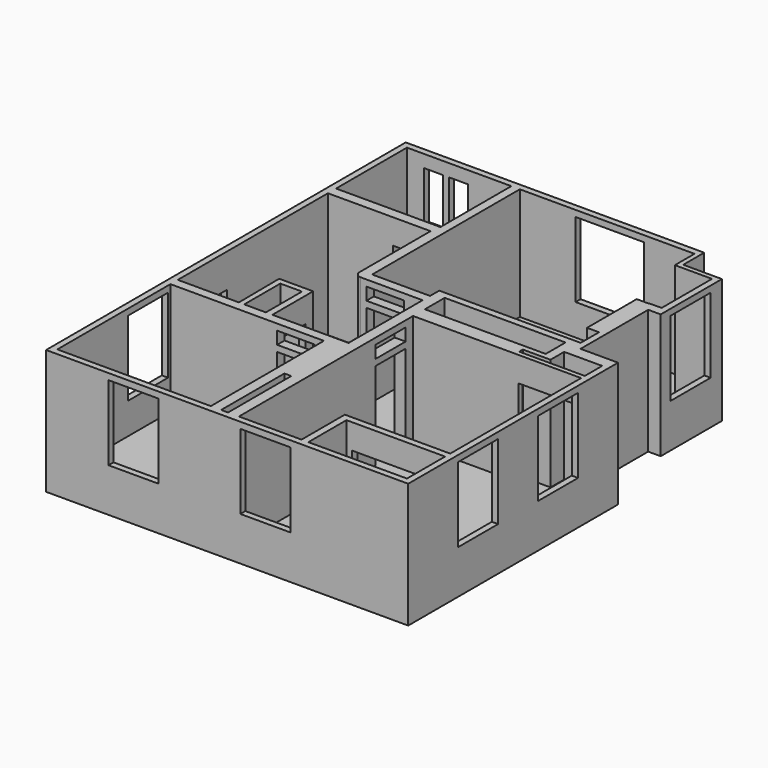
from build123d import *

# Parameters (mm, degrees)
F3_DEPTH  = 10
F4_DEPTH  = 100
F1_W      = 17.366
F1_H      = 36.154188
F5_DEPTH  = 100
F6_W      = 40
F6_H      = 60
F7_DEPTH  = 10
F8_W      = 40
F8_H      = 60
F9_DEPTH  = 10
F10_W     = 40
F10_H     = 60
F11_DEPTH = 10
F12_W     = 40
F12_H     = 60
F12_W_2   = 30
F12_H_2   = 50
F13_DEPTH = 10
F14_W     = 15
F14_H     = 40
F14_W_2   = 55
F14_H_2   = 60
F15_DEPTH = 10
F16_W     = 80
F16_H     = 70
F17_DEPTH = 10
F18_W     = 30
F18_H     = 70
F18_H_2   = 10
F19_DEPTH = 10
F20_W     = 30
F20_H     = 70
F20_H_2   = 10
F21_DEPTH = 10
F22_W     = 30
F22_H     = 70
F22_H_2   = 10
F23_DEPTH = 10
F24_W     = 30
F24_H     = 70
F25_DEPTH = 10
F26_R     = 5
F27_W     = 45
F27_H     = 70
F28_DEPTH = 5.6
F29_W     = 55
F29_H     = 70
F30_DEPTH = 8
F31_W     = 64.428788
F31_H     = 70
F32_DEPTH = 10
F33_W     = 30
F33_H     = 70
F34_DEPTH = 10


with BuildPart() as f3:
    # F2 (on Top) → F3 (new body)
    with BuildSketch(Plane.XY):
        Polygon((95.242359, 211.719842), (-138.729709, 211.719842), (-138.342458, 131.481439), (-108.129827, 131.481439), (-108.046199, 94.60168), (-87.173399, 94.649011), (-86.914142, -19.682718), (-137.61172, -19.927398), (-137.295023, -85.54685), (-137.905847, -85.549798), (-137.633327, -142.015695), (144.48047, -142.015695), (144.48047, 61.8671), (113.558467, 61.8671), (113.558467, 138.765142), (124.934341, 138.765142), (124.934341, 192.200884), (95.242359, 192.200884), align=None)
    extrude(amount=F3_DEPTH)

    # F0 (on Top) → F4 (join)
    with BuildSketch(Plane.XY):
        Polygon((97.288959, 214.708266), (-141.752276, 214.708266), (-141.752276, -145.291734), (148.247724, -145.291734), (148.247724, 64.708266), (118.247724, 64.708266), (118.247724, 132.413622), (128.247724, 132.413622), (128.247724, 190.051958), (128.247724, 193.735838), (97.288959, 193.735838), align=None)
        Polygon((0, -140.291734), (-136.752276, -140.291734), (-136.752276, -24.433134), (0, -24.433134), (0, -134.701237), align=None, mode=Mode.SUBTRACT)
        Polygon((-136.752276, 135.399103), (-136.752276, 209.708266), (-52.510735, 209.708266), (-46.752276, 209.708266), (93.502745, 209.708266), (93.502745, 190.051958), (123.247724, 190.051958), (123.247724, 139.708266), (113.247724, 139.541012), (113.247724, 89.373782), (113.247724, 69.708266), (113.247724, 59.708266), (143.247724, 59.708266), (143.247724, 39.708266), (143.247724, -140.291734), (3.247724, -140.291734), (3.247724, -20.291734), (-80.555938, -20.291734), (-86.73545, -20.291734), (-136.752276, -20.291734), (-136.752276, 94.766736), (-136.752276, 99.708266), (-136.752276, 129.708266), align=None, mode=Mode.SUBTRACT)
    extrude(amount=F4_DEPTH)

    # F1 (on Top) → F5 (join)
    with BuildSketch(Plane.XY):
        Polygon((-46.381772, 210.111141), (-53.180333, 210.111141), (-53.180333, 138.726264), (-138.247326, 138.726264), (-138.247326, 130.567983), (-54.540046, 130.567983), (-54.540046, 54.424096), (0, 54.424096), (0, -19.680222), (-61.00649, -19.680222), (-61.00649, 21.1049), (-88.213228, 21.1049), (-87.853, -19.680222), (-137.235827, -19.680222), (-137.206597, -27.083231), (-13.823553, -27.083231), (-13.823553, -77.065498), (-13.823553, -142.692134), (-5.52455, -142.692134), (-5.52455, -77.065498), (0, -77.065498), (0, -143.060565), (8.686575, -143.060565), (8.686575, 34.028415), (90.665676, 34.028415), (145.648941, 34.028415), (145.648941, 37.734261), (90.665676, 37.734261), (90.665676, 41.440107), (112.807184, 41.440107), (112.807184, 55.10395), (137.995422, 55.10395), (143.29809, 55.10395), (144.269308, 61.888803), (114.873245, 61.888803), (114.873245, 71.072504), (0, 71.072504), (0, 61.888803), (-46.381772, 61.888803), align=None)
        with Locations((-74.89929, -1.603128)):
            Rectangle(F1_W, F1_H, mode=Mode.SUBTRACT)
        Polygon((105.549461, 45.731954), (8.765615, 45.731954), (8.765615, 65.555473), (90.949163, 65.555473), (96.314847, 65.555473), (105.549461, 65.555473), (105.549461, 55.10395), align=None, mode=Mode.SUBTRACT)
        Polygon((103.623547, 89.477897), (113.413647, 89.477897), (113.805249, 139.211625), (103.623547, 139.211625), align=None)
        Polygon((58.818936, -96.983925), (58.818936, -141.743556), (64.279255, -141.743556), (64.279255, -102.133363), (144.678116, -102.133363), (144.678116, -96.983925), align=None)
        Polygon((97.186632, 212.130934), (93.550943, 212.130934), (93.550943, 190.134004), (124.809749, 190.134004), (124.809749, 193.531185), (97.186632, 193.531185), align=None)
    extrude(amount=F5_DEPTH)

    # F6 (on face) → F7 (cut)
    with BuildSketch(Plane.YZ.offset(148.247724)):
        with Locations((-75.291734, 65)):
            Rectangle(F6_W, F6_H)
        with Locations((4.708266, 65)):
            Rectangle(F6_W, F6_H)
    extrude(amount=-F7_DEPTH, mode=Mode.SUBTRACT)

    # F8 (on face) → F9 (cut)
    with BuildSketch(Plane.YZ.offset(128.247724)):
        with Locations((162.413622, 65)):
            Rectangle(F8_W, F8_H)
    extrude(amount=-F9_DEPTH, mode=Mode.SUBTRACT)

    # F10 (on face) → F11 (cut)
    with BuildSketch(Plane.XZ.offset(145.291734)):
        with Locations((33.812322, 65)):
            Rectangle(F10_W, F10_H)
        with Locations((-71.752276, 65)):
            Rectangle(F10_W, F10_H)
    extrude(amount=-F11_DEPTH, mode=Mode.SUBTRACT)

    # F12 (on face) → F13 (cut)
    with BuildSketch(Plane(origin=(-141.752276, 0, 0), x_dir=(0, -1, 0), z_dir=(-1, 0, 0))):
        with Locations((49.433134, 65)):
            Rectangle(F12_W, F12_H)
        with Locations((-14.708266, 48)):
            Rectangle(F12_W_2, F12_H_2)
    extrude(amount=-F13_DEPTH, mode=Mode.SUBTRACT)

    # F14 (on face) → F15 (cut)
    with BuildSketch(Plane(origin=(0, 214.708266, 0), x_dir=(-1, 0, 0), z_dir=(0, 1, 0))):
        with Locations((95.571365, 70)):
            Rectangle(F14_W, F14_H)
        with Locations((115.571365, 70)):
            Rectangle(F14_W, F14_H)
        with Locations((-25.747724, 65)):
            Rectangle(F14_W_2, F14_H_2)
    extrude(amount=-F15_DEPTH, mode=Mode.SUBTRACT)

    # F16 (on face) → F17 (cut)
    with BuildSketch(Plane(origin=(0, 71.072504, 0), x_dir=(-1, 0, 0), z_dir=(0, 1, 0))):
        with Locations((-60, 45)):
            Rectangle(F16_W, F16_H)
    extrude(amount=-F17_DEPTH, mode=Mode.SUBTRACT)

    # F18 (on face) → F19 (cut)
    with BuildSketch(Plane(origin=(0, 61.888803, 0), x_dir=(-1, 0, 0), z_dir=(0, 1, 0))):
        with Locations((30, 45)):
            Rectangle(F18_W, F18_H)
        with Locations((30, 90)):
            Rectangle(F18_W, F18_H_2)
    extrude(amount=-F19_DEPTH, mode=Mode.SUBTRACT)

    # F20 (on face) → F21 (cut)
    with BuildSketch(Plane.XZ.offset(27.083231)):
        with Locations((-36.323553, 45)):
            Rectangle(F20_W, F20_H)
        with Locations((-36.323553, 90)):
            Rectangle(F20_W, F20_H_2)
    extrude(amount=-F21_DEPTH, mode=Mode.SUBTRACT)

    # F22 (on face) → F23 (cut)
    with BuildSketch(Plane.YZ.offset(8.686575)):
        with Locations((11.528415, 45)):
            Rectangle(F22_W, F22_H)
        with Locations((11.528415, 90)):
            Rectangle(F22_W, F22_H_2)
    extrude(amount=-F23_DEPTH, mode=Mode.SUBTRACT)

    # F24 (on face) → F25 (cut)
    with BuildSketch(Plane.XZ.offset(-130.567983)):
        with Locations((-69.528099, 45)):
            Rectangle(F24_W, F24_H)
    extrude(amount=-F25_DEPTH, mode=Mode.SUBTRACT)

    # F26
    f26_edges = [f3.edges().sort_by_distance(p)[0] for p in [
        (-54.540046, 54.424096, 55),
    ]]
    fillet(f26_edges, radius=F26_R)

    # F27 (on face) → F28 (cut)
    with BuildSketch(Plane.XZ.offset(-34.028415)):
        with Locations((115.747724, 45)):
            Rectangle(F27_W, F27_H)
    extrude(amount=-F28_DEPTH, mode=Mode.SUBTRACT)

    # F29 (on face) → F30 (cut)
    with BuildSketch(Plane(origin=(-13.823553, 0, 0), x_dir=(0, -1, 0), z_dir=(-1, 0, 0))):
        with Locations((107.791734, 45)):
            Rectangle(F29_W, F29_H)
    extrude(amount=-F30_DEPTH, mode=Mode.SUBTRACT)

    # F31 (on face) → F32 (cut)
    with BuildSketch(Plane(origin=(0, -96.983925, 0), x_dir=(-1, 0, 0), z_dir=(0, 1, 0))):
        with Locations((-101.03333, 45)):
            Rectangle(F31_W, F31_H)
    extrude(amount=-F32_DEPTH, mode=Mode.SUBTRACT)

    # F33 (on face) → F34 (cut)
    with BuildSketch(Plane.YZ.offset(-61.00649)):
        with Locations((-1.3951, 45)):
            Rectangle(F33_W, F33_H)
    extrude(amount=-F34_DEPTH, mode=Mode.SUBTRACT)


solid = f3.part
